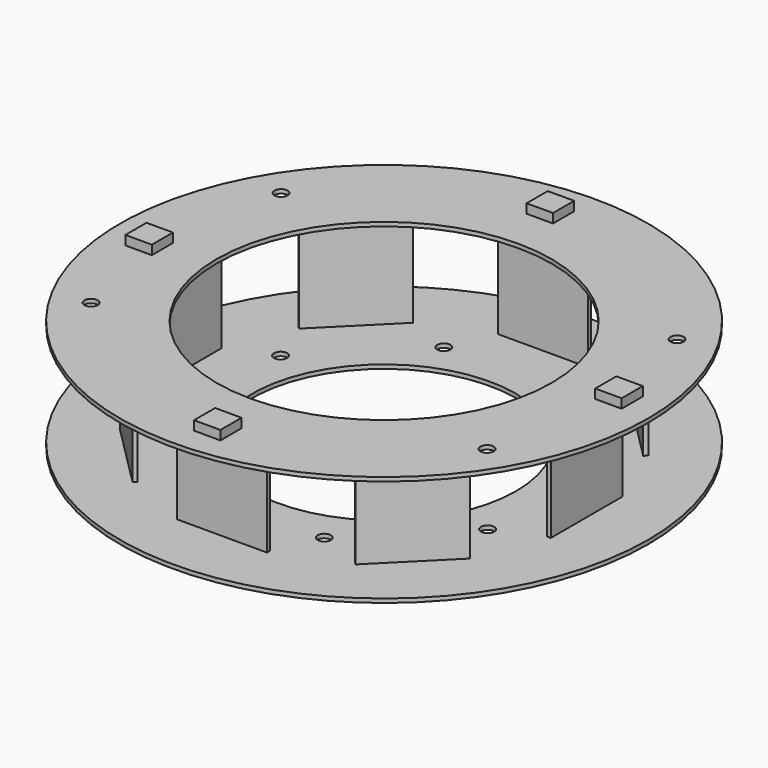
from build123d import *

# Parameters (mm, degrees)
SKETCH_R           = 200
SKETCH_R_2         = 100
SKETCH_R_3         = 5
PAD_DEPTH          = 3
SKETCH001_W        = 3
SKETCH001_H        = 68
PAD001_DEPTH       = 84
SKETCH002_R        = 200
SKETCH002_R_2      = 127
SKETCH002_R_3      = 5
PAD002_DEPTH       = 3
POLARPATTERN_COUNT = 8
SKETCH003_W        = 20
SKETCH003_H        = 20
PAD003_DEPTH       = 10


with BuildPart() as part:
    # Sketch → Pad (new body)
    with BuildSketch(Plane.XY):
        Circle(SKETCH_R)
        Circle(SKETCH_R_2, mode=Mode.SUBTRACT)
        with Locations((-117.332701, 48.600796)):
            Circle(SKETCH_R_3, mode=Mode.SUBTRACT)
        with Locations((-48.600796, 117.332701)):
            Circle(SKETCH_R_3, mode=Mode.SUBTRACT)
        with Locations((48.600796, 117.332701)):
            Circle(SKETCH_R_3, mode=Mode.SUBTRACT)
        with Locations((117.332701, 48.600796)):
            Circle(SKETCH_R_3, mode=Mode.SUBTRACT)
        with Locations((117.332701, -48.600796)):
            Circle(SKETCH_R_3, mode=Mode.SUBTRACT)
        with Locations((48.600796, -117.332701)):
            Circle(SKETCH_R_3, mode=Mode.SUBTRACT)
        with Locations((-48.600796, -117.332701)):
            Circle(SKETCH_R_3, mode=Mode.SUBTRACT)
        with Locations((-117.332701, -48.600796)):
            Circle(SKETCH_R_3, mode=Mode.SUBTRACT)
    extrude(amount=PAD_DEPTH)

    # Sketch001 → Pad001 (join)
    with BuildSketch(Plane.XY):
        with Locations((-152, 0)):
            Rectangle(SKETCH001_W, SKETCH001_H)
    pad001 = extrude(amount=PAD001_DEPTH)

    # Sketch002 (on DatumPlane) → Pad002 (join)
    with BuildSketch(Plane.XY.offset(81)):
        Circle(SKETCH002_R)
        Circle(SKETCH002_R_2, mode=Mode.SUBTRACT)
        with Locations((-150, 90)):
            Circle(SKETCH002_R_3, mode=Mode.SUBTRACT)
        with Locations((-150, -90)):
            Circle(SKETCH002_R_3, mode=Mode.SUBTRACT)
        with Locations((150, 90)):
            Circle(SKETCH002_R_3, mode=Mode.SUBTRACT)
        with Locations((150, -90)):
            Circle(SKETCH002_R_3, mode=Mode.SUBTRACT)
    extrude(amount=PAD002_DEPTH)

    # PolarPattern: Pad001 ×8 about axis
    polarpattern_axis = Axis((0, 0, 0), (0, 0, 1))
    for i in range(1, POLARPATTERN_COUNT):
        add(pad001.rotate(polarpattern_axis, i * 360 / POLARPATTERN_COUNT))

    # Sketch003 (on DatumPlane) → Pad003 (join)
    with BuildSketch(Plane.XY.offset(81)):
        with Locations((170, 10)):
            Rectangle(SKETCH003_W, SKETCH003_H)
        with Locations((-10, 170)):
            Rectangle(SKETCH003_W, SKETCH003_H)
        with Locations((-170, -10)):
            Rectangle(SKETCH003_W, SKETCH003_H)
        with Locations((10, -170)):
            Rectangle(SKETCH003_W, SKETCH003_H)
    extrude(amount=PAD003_DEPTH)


solid = part.part
